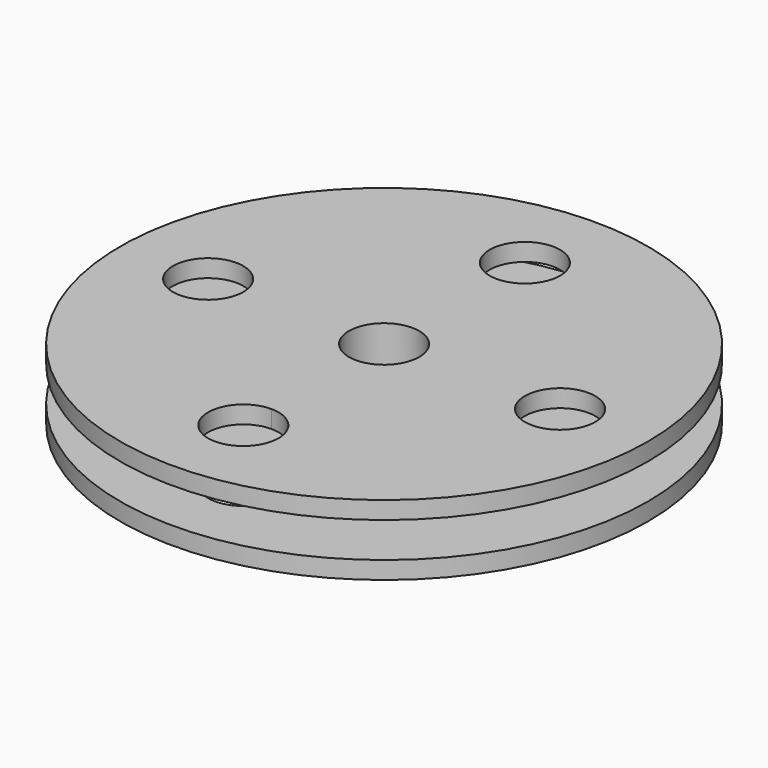
from build123d import *

# Parameters (mm, degrees)
F0_R     = 19.05
F1_DEPTH = 1.27
F2_R     = 5.08
F3_DEPTH = 2.54
F4_R     = 19.05
F4_R_2   = 5.08
F5_DEPTH = 1.27
F6_R     = 2.54
F7_DEPTH = 25.4
F8_R     = 2.54
F9_DEPTH = 25.4


with BuildPart() as f1:
    # F0 (on Top) → F1 (new body)
    with BuildSketch(Plane.XY):
        Circle(F0_R)
    extrude(amount=F1_DEPTH)

    # F2 (on face) → F3 (join)
    with BuildSketch(Plane.XY.offset(1.27)):
        Circle(F2_R)
    extrude(amount=F3_DEPTH)

    # F4 (on face) → F5 (join)
    with BuildSketch(Plane.XY.offset(3.81)):
        Circle(F4_R)
        Circle(F4_R_2, mode=Mode.SUBTRACT)
        Circle(F4_R_2)
    extrude(amount=F5_DEPTH)

    # F6 (on face) → F7 (cut)
    with BuildSketch(Plane.XY.offset(5.08)):
        Circle(F6_R)
    extrude(amount=-F7_DEPTH, mode=Mode.SUBTRACT)

    # F8 (on face) → F9 (cut)
    with BuildSketch(Plane.XY.offset(5.08)):
        with BuildLine():
            ThreePointArc((0, 10.16), (1.7960512242, 10.9039487758), (2.54, 12.7))
            ThreePointArc((2.54, 12.7), (-1.7960512242, 14.4960512242), (0, 10.16))
        make_face()
        with BuildLine():
            ThreePointArc((15.24, 0), (12.7, 2.54), (10.16, 0))
            ThreePointArc((10.16, 0), (12.7, -2.54), (15.24, 0))
        make_face()
        with BuildLine():
            ThreePointArc((2.54, -12.7), (1.7960512242, -10.9039487758), (0, -10.16))
            ThreePointArc((0, -10.16), (-1.7960512242, -14.4960512242), (2.54, -12.7))
        make_face()
        with Locations((-12.7, 0)):
            Circle(F8_R)
    extrude(amount=-F9_DEPTH, mode=Mode.SUBTRACT)


solid = f1.part
